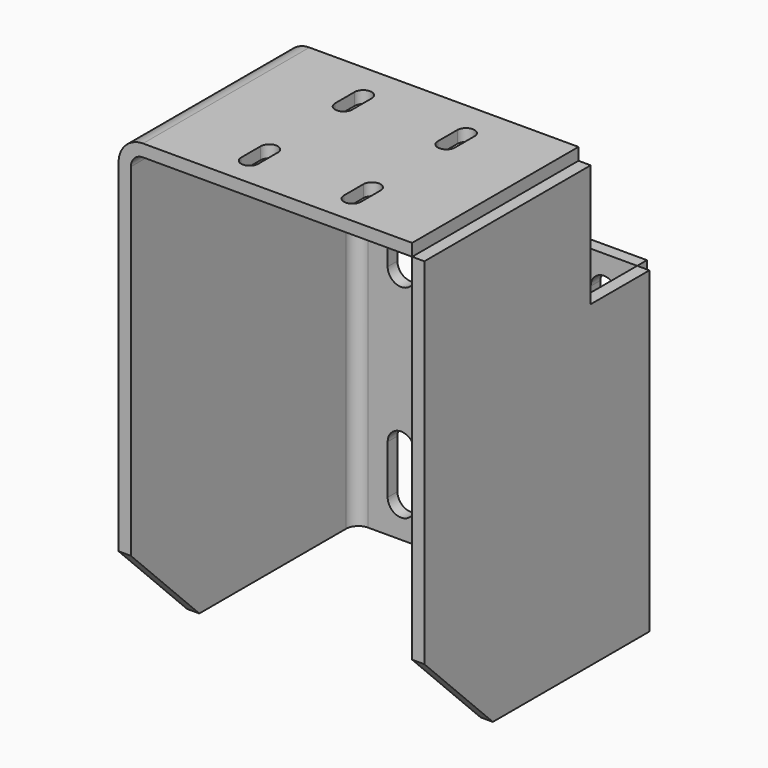
from build123d import *

# Parameters (mm, degrees)
F0_W       = 110
F0_H       = 130
F1_DEPTH   = 5
F3_DEPTH   = 130
F5_DEPTH   = 85
F7_DEPTH   = 185.001
F9_DEPTH   = 5
F10_SIZE   = 35
F10_2_SIZE = 35


with BuildPart() as f1:
    # F0 (on Front) → F1 (new body)
    with BuildSketch(Plane.XZ):
        Rectangle(F0_W, F0_H)
        with BuildLine():
            ThreePointArc((-36, -51.5), (-41.5, -57), (-47, -51.5))
            Line((-47, -51.5), (-47, -31.5))
            ThreePointArc((-47, -31.5), (-41.5, -26), (-36, -31.5))
            Line((-36, -31.5), (-36, -51.5))
        make_face(mode=Mode.SUBTRACT)
        with BuildLine():
            ThreePointArc((36, -31.5), (41.5, -26), (47, -31.5))
            Line((47, -31.5), (47, -51.5))
            ThreePointArc((47, -51.5), (41.5, -57), (36, -51.5))
            Line((36, -51.5), (36, -31.5))
        make_face(mode=Mode.SUBTRACT)
        with BuildLine():
            Line((-36, 51.5), (-36, 31.5))
            ThreePointArc((-36, 31.5), (-41.5, 26), (-47, 31.5))
            Line((-47, 31.5), (-47, 51.5))
            ThreePointArc((-47, 51.5), (-41.5, 57), (-36, 51.5))
        make_face(mode=Mode.SUBTRACT)
        with BuildLine():
            ThreePointArc((47, 31.5), (41.5, 26), (36, 31.5))
            Line((36, 31.5), (36, 51.5))
            ThreePointArc((36, 51.5), (41.5, 57), (47, 51.5))
            Line((47, 51.5), (47, 31.5))
        make_face(mode=Mode.SUBTRACT)
    extrude(amount=F1_DEPTH)

    # F2 (on face) → F3 (join, through all)
    with BuildSketch(Plane.XY.offset(65)):
        with BuildLine():
            ThreePointArc((-60, -10), (-58.535534, -6.464466), (-55, -5))
            Line((-55, -5), (-55, 0))
            ThreePointArc((-55, 0), (-62.071068, -2.928932), (-65, -10))
            Line((-65, -10), (-65, -120))
            Line((-65, -120), (-60, -120))
            Line((-60, -120), (-60, -10))
        make_face()
    extrude(amount=-F3_DEPTH)

    # F4 (on face) → F5 (join)
    with BuildSketch(Plane.XZ.offset(120)):
        with BuildLine():
            Line((-65, 65), (-60, 65))
            Line((-60, 65), (-60, 110))
            ThreePointArc((-60, 110), (-58.535534, 113.535534), (-55, 115))
            Line((-55, 115), (55, 115))
            Line((55, 115), (55, 120))
            Line((55, 120), (-55, 120))
            ThreePointArc((-55, 120), (-62.071068, 117.071068), (-65, 110))
            Line((-65, 110), (-65, 65))
        make_face()
    extrude(amount=-F5_DEPTH)

    # F6 (on face) → F7 (cut, through all)
    with BuildSketch(Plane.XY.offset(120)):
        with BuildLine():
            Line((17.5, -50), (17.5, -60))
            ThreePointArc((17.5, -60), (21, -63.5), (24.5, -60))
            Line((24.5, -60), (24.5, -50))
            ThreePointArc((24.5, -50), (21, -46.5), (17.5, -50))
        make_face()
        with BuildLine():
            Line((17.5, -98), (17.5, -108))
            ThreePointArc((17.5, -108), (21, -111.5), (24.5, -108))
            Line((24.5, -108), (24.5, -98))
            ThreePointArc((24.5, -98), (21, -94.5), (17.5, -98))
        make_face()
        with BuildLine():
            Line((-24.5, -50), (-24.5, -60))
            ThreePointArc((-24.5, -60), (-21, -63.5), (-17.5, -60))
            Line((-17.5, -60), (-17.5, -50))
            ThreePointArc((-17.5, -50), (-21, -46.5), (-24.5, -50))
        make_face()
        with BuildLine():
            Line((-24.5, -98), (-24.5, -108))
            ThreePointArc((-24.5, -108), (-21, -111.5), (-17.5, -108))
            Line((-17.5, -108), (-17.5, -98))
            ThreePointArc((-17.5, -98), (-21, -94.5), (-24.5, -98))
        make_face()
    extrude(amount=-F7_DEPTH, mode=Mode.SUBTRACT)

    # F10
    f10_edges = [f1.edges().sort_by_distance(p)[0] for p in [
        (-62.5, -120, -65),
    ]]
    chamfer(f10_edges, length=F10_SIZE)


with BuildPart() as f9:
    # F8 (on face) → F9 (new body)
    with BuildSketch(Plane.YZ.offset(55)):
        Polygon((-120, -65), (-5, -65), (-5, 65), (-35, 65), (-35, 115), (-120, 115), align=None)
    extrude(amount=F9_DEPTH)

    # F10#2
    f10_2_edges = [f9.edges().sort_by_distance(p)[0] for p in [
        (57.5, -120, -65),
    ]]
    chamfer(f10_2_edges, length=F10_2_SIZE)


solid = Compound([f1.part, f9.part])
